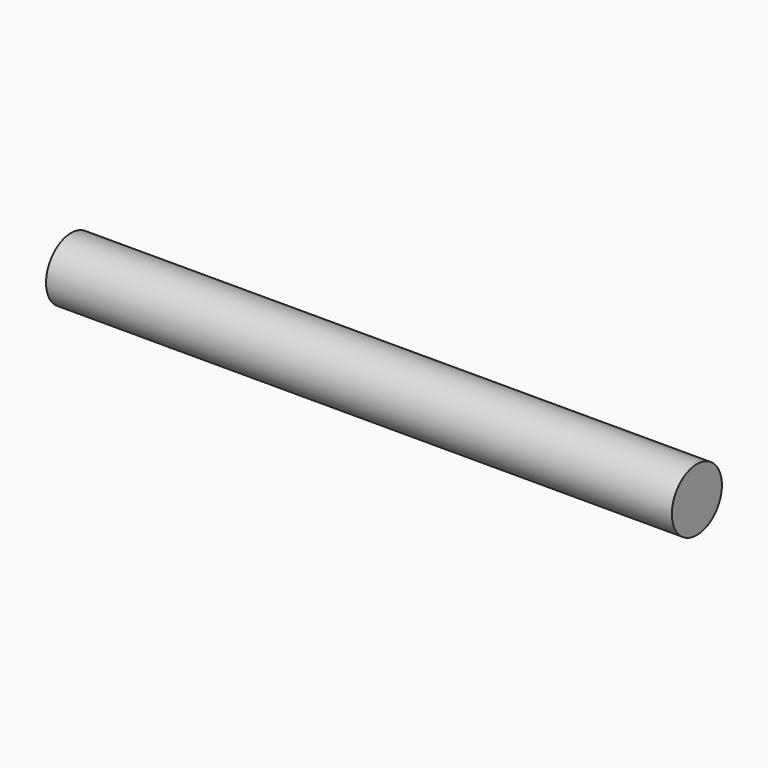
from build123d import *

# Parameters (mm, degrees)
F1_R     = 2.5
F2_DEPTH = 50


with BuildPart() as f2:
    # F1 (on Right) → F2 (new body)
    with BuildSketch(Plane.YZ):
        Circle(F1_R)
    extrude(amount=F2_DEPTH)


with BuildPart() as f3_1:
    # F3: copy of F2
    add(f2.part)


solid = f3_1.part
